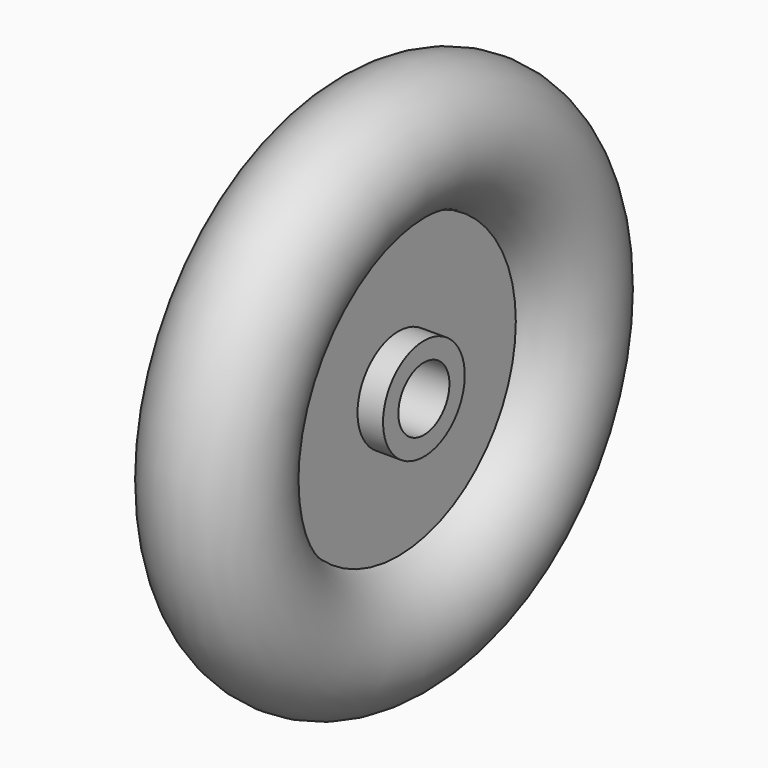
from build123d import *

# Parameters (mm, degrees)
F0_W = 4.500004
F0_H = 15


with BuildPart() as f2:
    # F0 (on Front) → F2 (revolve)
    with BuildSketch(Plane.XZ):
        Polygon((6.250002, 5), (6.250002, 8), (2.250002, 8), (-2.250002, 8), (-6.250002, 8), (-6.250002, 5), align=None)
        with Locations((0, 15.5)):
            Rectangle(F0_W, F0_H)
        with BuildLine():
            Line((-2.250002, 23), (2.250002, 23))
            ThreePointArc((2.250002, 23), (0, 42.743587), (-2.250002, 23))
        make_face()
    revolve(axis=Axis((9.867935, 0, 0), (1, 0, 0)))


solid = f2.part
